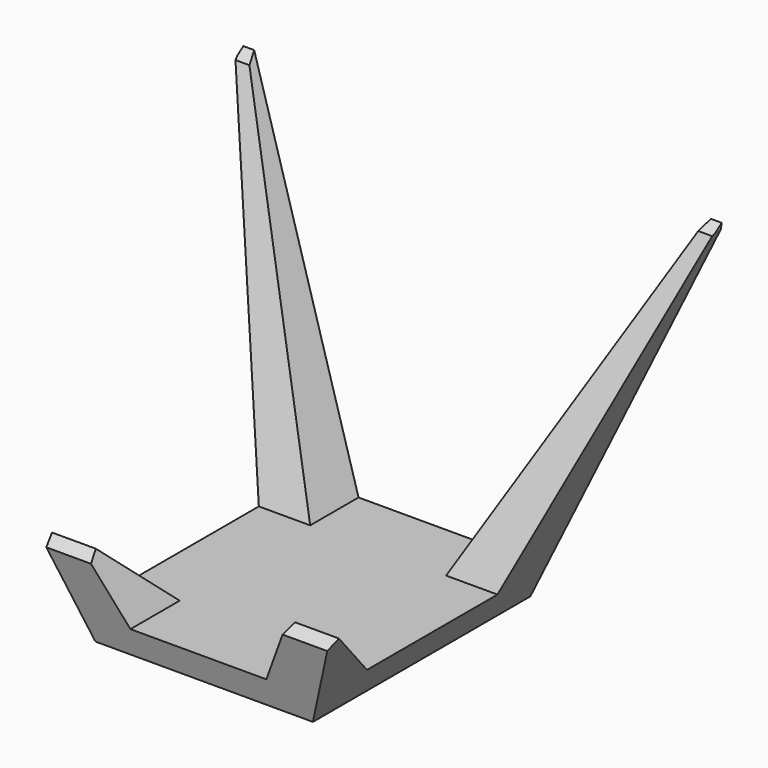
from build123d import *

# Parameters (mm, degrees)
PAD_DEPTH         = 44
SKETCH001_R       = 150
POCKET_DEPTH      = 44.001
POCKET_DEPTH_BACK = -24.001


with BuildPart() as part:
    # Sketch → Pad (new body, symmetric)
    with BuildSketch(Plane.YZ):
        Polygon((30, 0), (44, 62.614113), (42, 61.213698), (20, 5), (-10, 5), (-22, 16.400415), (-24, 15), (-20, 0), align=None)
    extrude(amount=PAD_DEPTH, both=True)

    # Sketch001 → Pocket (cut, two sides)
    with BuildSketch(Plane(origin=(0, 0, 0), x_dir=(0, 0, -1), z_dir=(0, -1, 0))) as pocket_sk:
        Circle(SKETCH001_R)
        Polygon((0, -20), (-61.614113, -44), (-62.614113, -44), (-62.614113, -42), (-5, -12.5), (-5, 12.5), (-62.614113, 42), (-62.614113, 44), (-61.614113, 44), (0, 20), align=None, mode=Mode.SUBTRACT)
    extrude(amount=-POCKET_DEPTH, mode=Mode.SUBTRACT)
    extrude(pocket_sk.sketch, amount=-POCKET_DEPTH_BACK, mode=Mode.SUBTRACT)


solid = part.part
